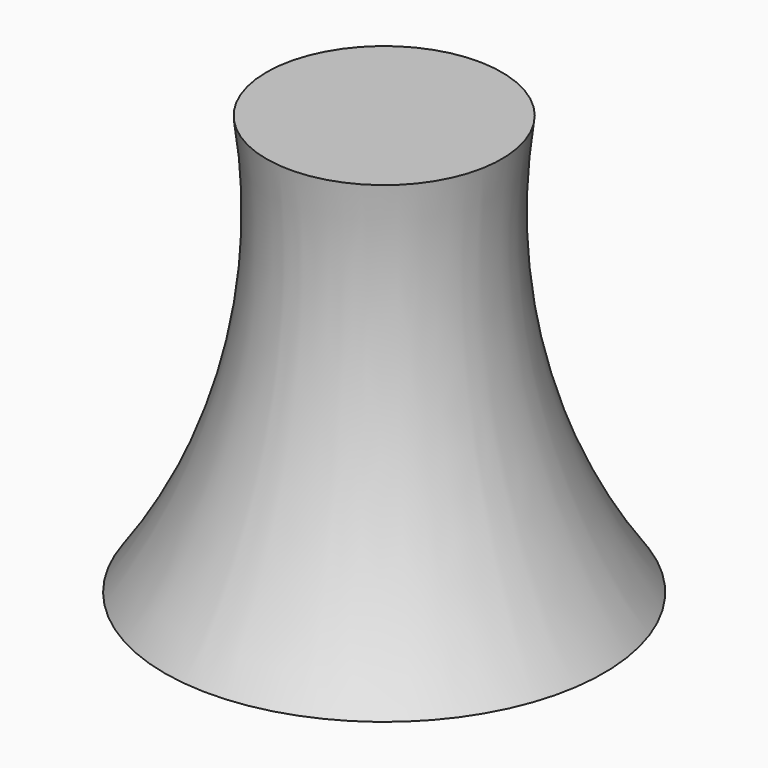
from build123d import *


with BuildPart() as f1:
    # F0 (on Front) → F1 (revolve)
    with BuildSketch(Plane.XZ):
        with BuildLine():
            ThreePointArc((-25.479859, 42.520527), (-27.62707, -5.079931), (-47.551583, -48.363045))
            Line((-47.551583, -48.363045), (0, -48.363045))
            Line((0, -48.363045), (0, 42.520527))
            Line((0, 42.520527), (-25.479859, 42.520527))
        make_face()
    revolve(axis=Axis((0, 0, -2.921259), (0, 0, -1)))


solid = f1.part
